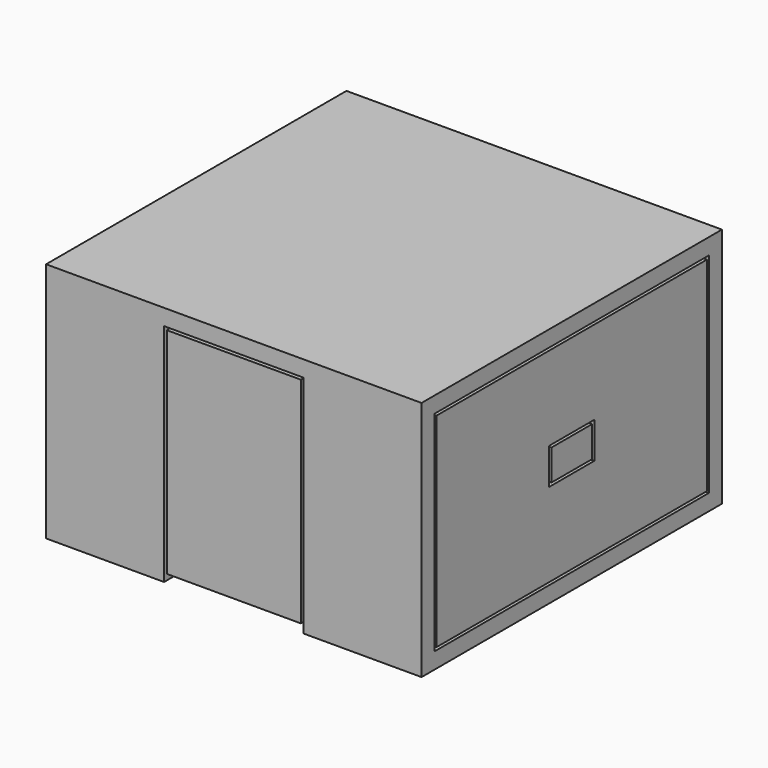
from build123d import *

# Parameters (mm, degrees)
F0_W      = 700
F0_H      = 700
F1_DEPTH  = 450
F2_W      = 640
F2_H      = 390
F2_W_2    = 630
F2_H_2    = 380
F3_DEPTH  = 25
F4_W      = 260
F4_H      = 390
F4_W_2    = 250
F4_H_2    = 380
F5_DEPTH  = 25
F7_DEPTH  = 25
F4_W_3    = 70
F4_H_3    = 45
F8_DEPTH  = 25
F9_W      = 640
F9_H      = 420
F9_W_2    = 630
F9_H_2    = 400
F10_DEPTH = 50
F12_W     = 260
F12_H     = 420
F12_W_2   = 250
F12_H_2   = 400
F13_DEPTH = 100


with BuildPart() as f1:
    # F0 (on Top) → F1 (new body)
    with BuildSketch(Plane.XY):
        Rectangle(F0_W, F0_H)
    extrude(amount=F1_DEPTH)

    # F2 (on face) → F3 (cut)
    with BuildSketch(Plane.YZ.offset(350)):
        with Locations((0, 225)):
            Rectangle(F2_W, F2_H)
        with Locations((0, 225)):
            Rectangle(F2_W_2, F2_H_2, mode=Mode.SUBTRACT)
    extrude(amount=-F3_DEPTH, mode=Mode.SUBTRACT)

    # F4 (on face) → F5 (cut)
    with BuildSketch(Plane(origin=(0, 350, 0), x_dir=(-1, 0, 0), z_dir=(0, 1, 0))):
        with Locations((0, 225)):
            Rectangle(F4_W, F4_H)
        with Locations((0, 225)):
            Rectangle(F4_W_2, F4_H_2, mode=Mode.SUBTRACT)
    extrude(amount=-F5_DEPTH, mode=Mode.SUBTRACT)

    # F6 (on face) → F7 (cut)
    with BuildSketch(Plane.YZ.offset(350)):
        Polygon((52.5, 258.75), (-52.5, 258.75), (-52.5, 225), (-47.5, 225), (-47.5, 253.75), (47.5, 253.75), (47.5, 225), (52.5, 225), align=None)
        Polygon((-47.5, 225), (-52.5, 225), (-52.5, 191.25), (52.5, 191.25), (52.5, 225), (47.5, 225), (47.5, 196.25), (-47.5, 196.25), align=None)
    extrude(amount=-F7_DEPTH, mode=Mode.SUBTRACT)

    # F4 (on face) → F8 (cut)
    with BuildSketch(Plane(origin=(0, 350, 0), x_dir=(-1, 0, 0), z_dir=(0, 1, 0))):
        with Locations((0, 225)):
            Rectangle(F4_W_3, F4_H_3)
    extrude(amount=-F8_DEPTH, mode=Mode.SUBTRACT)

    # F9 (on face) → F10 (cut)
    with BuildSketch(Plane(origin=(-350, 0, 0), x_dir=(0, -1, 0), z_dir=(-1, 0, 0))):
        with Locations((0, 210)):
            Rectangle(F9_W, F9_H)
        with Locations((0, 215)):
            Rectangle(F9_W_2, F9_H_2, mode=Mode.SUBTRACT)
    extrude(amount=-F10_DEPTH, mode=Mode.SUBTRACT)

    # F12 (on face) → F13 (cut)
    with BuildSketch(Plane.XZ.offset(350)):
        with Locations((0, 210)):
            Rectangle(F12_W, F12_H)
        with Locations((0, 215)):
            Rectangle(F12_W_2, F12_H_2, mode=Mode.SUBTRACT)
    extrude(amount=-F13_DEPTH, mode=Mode.SUBTRACT)


solid = f1.part
